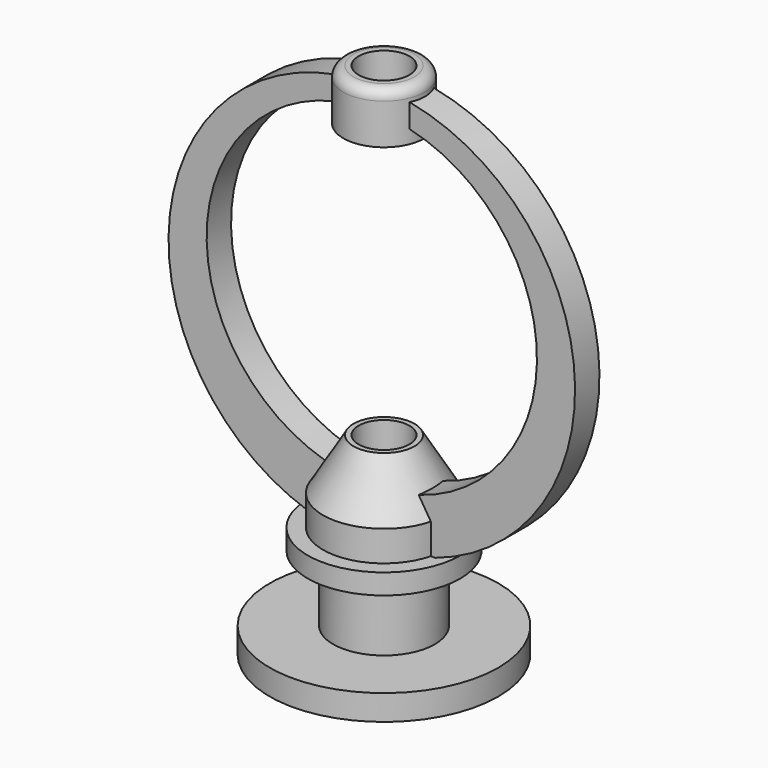
from build123d import *

# Parameters (mm, degrees)
F2_R     = 40
F2_R_2   = 32.5
F3_DEPTH = 3
F4_W     = 8
F4_H     = 10
F6_R     = 5
F7_DEPTH = 102.001
F8_R     = 2


with BuildPart() as f1:
    # F0 (on Front) → F1 (revolve)
    with BuildSketch(Plane.XZ):
        Polygon((0, 38), (0, 0), (22.5, 0), (22.5, 5), (10, 5), (10, 18), (15, 18), (15, 22), (12, 22), (12, 28), (6, 38), align=None)
    revolve(axis=Axis((0, 0, 28.7462979999), (0, 0, 1)))

    # F2 (on Front) → F3 (join, symmetric)
    with BuildSketch(Plane.XZ):
        with Locations((0, 60)):
            Circle(F2_R)
        with Locations((0, 63)):
            Circle(F2_R_2, mode=Mode.SUBTRACT)
    extrude(amount=F3_DEPTH, both=True)

    # F4 (on Front) → F5 (revolve)
    with BuildSketch(Plane.XZ):
        with Locations((4, 97)):
            Rectangle(F4_W, F4_H)
    revolve(axis=Axis((0, 0, 94.4946174344), (0, 0, -1)))

    # F6 (on face) → F7 (cut, through all)
    with BuildSketch(Plane.XY.offset(102)):
        Circle(F6_R)
    extrude(amount=-F7_DEPTH, mode=Mode.SUBTRACT)

    # F8
    f8_edges = [f1.edges().sort_by_distance(p)[0] for p in [
        (-8, 0, 102),
    ]]
    fillet(f8_edges, radius=F8_R)


solid = f1.part
